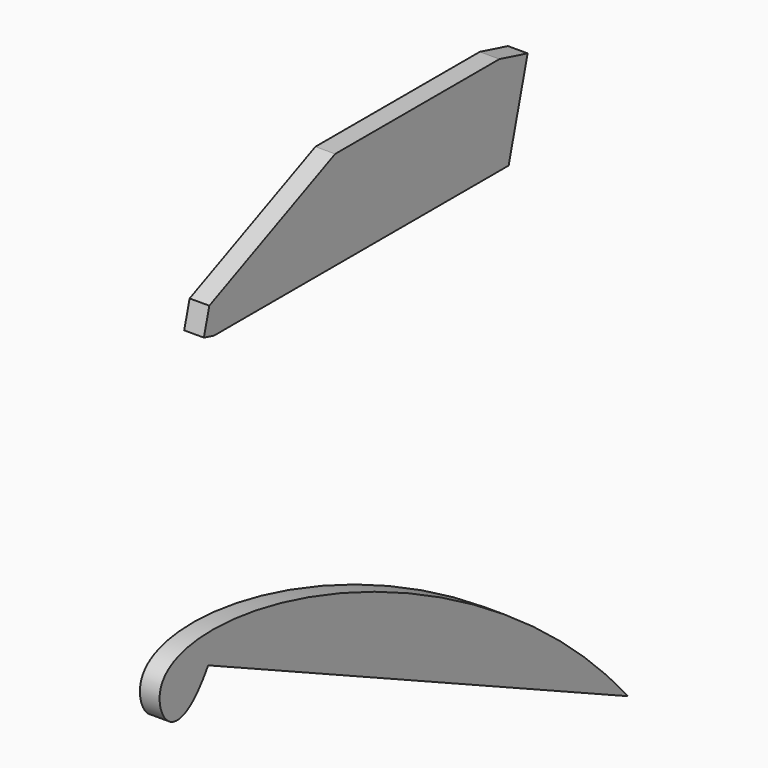
from build123d import *

# Parameters (mm, degrees)
F1_DEPTH = 38.1
F4_DEPTH = 38.1


with BuildPart() as f1:
    # F0 (on Right) → F1 (new body)
    with BuildSketch(Plane.YZ):
        Polygon((-365.9396546841, -502.0062856797), (-341.4051386963, -508.5802894253), (371.3823613037, -508.5802894253), (417.4198613037, -336.0380894253), (349.1573613037, -318.0802894253), (-48.4396546841, -318.0802894253), (-352.7916471929, -452.9372537042), align=None)
    extrude(amount=F1_DEPTH)


with BuildPart() as f4:
    # F3 (on face) → F4 (new body)
    with BuildSketch(Plane.YZ.offset(38.1)):
        with BuildLine():
            Line((-403.2669318563, -1032.8784938841), (612.7330681437, -1498.4681844916))
            add(Edge.make_bspline(
                [(612.7330681437, -1498.4681844916), (225.1875507799, -1047.3338939783), (-703.1732463559, -829.5169255484), (-476.6149520874, -1151.2105684895), (-403.2669318563, -1032.8784938841)],
                knots=[0, 0, 0, 0, 0.7646566969, 1, 1, 1, 1], degree=3))
        make_face()
    extrude(amount=F4_DEPTH)


solid = Compound([f1.part, f4.part])
